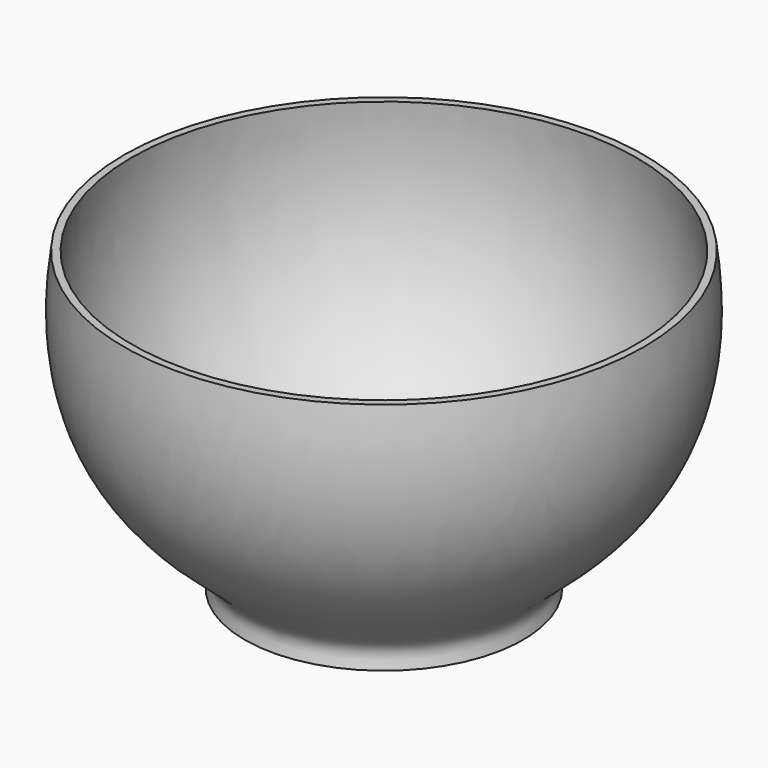
from build123d import *


with BuildPart() as f1:
    # F0 (on Front) → F1 (revolve)
    with BuildSketch(Plane.XZ):
        with BuildLine():
            Line((-37.5, 0), (0, 0))
            Line((0, 0), (0, 2))
            Line((0, 2), (-34.2388674617, 2))
            add(Edge.make_bspline(
                [(-34.2388674617, 2), (-34.0328350911, 2.8578974594), (-30.393834268, 9.7134063223), (-75.4134878516, 29.0684979409), (-68, 80)],
                knots=[0, 0, 0, 0, 0.1739186879, 1, 1, 1, 1], degree=3))
            Line((-68, 80), (-70, 80))
            add(Edge.make_bspline(
                [(-37.5, 0), (-37.2030619571, 1.3891070855), (-32.7880977893, 10.749422913), (-77.6006057858, 27.7483537793), (-70, 80)],
                knots=[0, 0, 0, 0, 0.2083245509, 1, 1, 1, 1], degree=3))
        make_face()
    revolve(axis=Axis((0, 0, 1), (0, 0, 1)))


solid = f1.part
